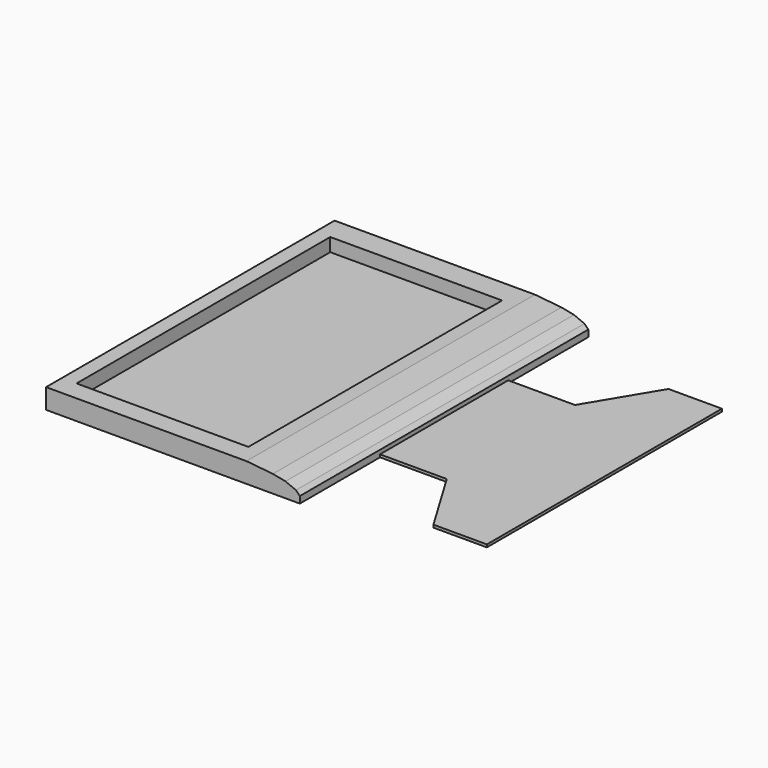
from build123d import *

# Parameters (mm, degrees)
SKETCH_W        = 19
SKETCH_H        = 27
PAD_DEPTH       = 1.5
PAD001_DEPTH    = 0.2
SKETCH003_W     = 12.864
SKETCH003_H     = 23.74
POCKET_DEPTH    = 1
CHAMFER_SIZE    = 1
CHAMFER001_SIZE = 1
CHAMFER002_SIZE = 1
CHAMFER003_SIZE = 1


with BuildPart() as part:
    # Sketch → Pad (new body)
    with BuildSketch(Plane.XY):
        with Locations((9.5, 13.5)):
            Rectangle(SKETCH_W, SKETCH_H)
    extrude(amount=PAD_DEPTH)

    # Sketch001 (on Face5 of Pad) → Pad001 (join)
    with BuildSketch(Plane(origin=(0, 0, 0), x_dir=(1, 0, 0), z_dir=(0, 0, -1))):
        Polygon((18, -7.5), (24, -7.5), (27, -2.5), (31, -2.5), (31, -24.5), (27, -24.5), (24, -19.5), (18, -19.5), align=None)
    extrude(amount=-PAD001_DEPTH)

    # Sketch003 (on Face5 of Pad001) → Pocket (cut)
    with BuildSketch(Plane.XY.offset(1.5)):
        with Locations((7.532, 13.348)):
            Rectangle(SKETCH003_W, SKETCH003_H)
    extrude(amount=-POCKET_DEPTH, mode=Mode.SUBTRACT)

    # Chamfer
    chamfer_edges = [part.edges().sort_by_distance(p)[0] for p in [
        (19, 13.5, 1.5),
    ]]
    chamfer(chamfer_edges, length=CHAMFER_SIZE)

    # Chamfer001
    chamfer001_edges = [part.edges().sort_by_distance(p)[0] for p in [
        (18, 13.5, 1.5),
    ]]
    chamfer(chamfer001_edges, length=CHAMFER001_SIZE)

    # Chamfer002
    chamfer002_edges = [part.edges().sort_by_distance(p)[0] for p in [
        (17, 13.5, 1.5),
    ]]
    chamfer(chamfer002_edges, length=CHAMFER002_SIZE)

    # Chamfer003
    chamfer003_edges = [part.edges().sort_by_distance(p)[0] for p in [
        (16, 13.5, 1.5),
    ]]
    chamfer(chamfer003_edges, length=CHAMFER003_SIZE)


solid = part.part
